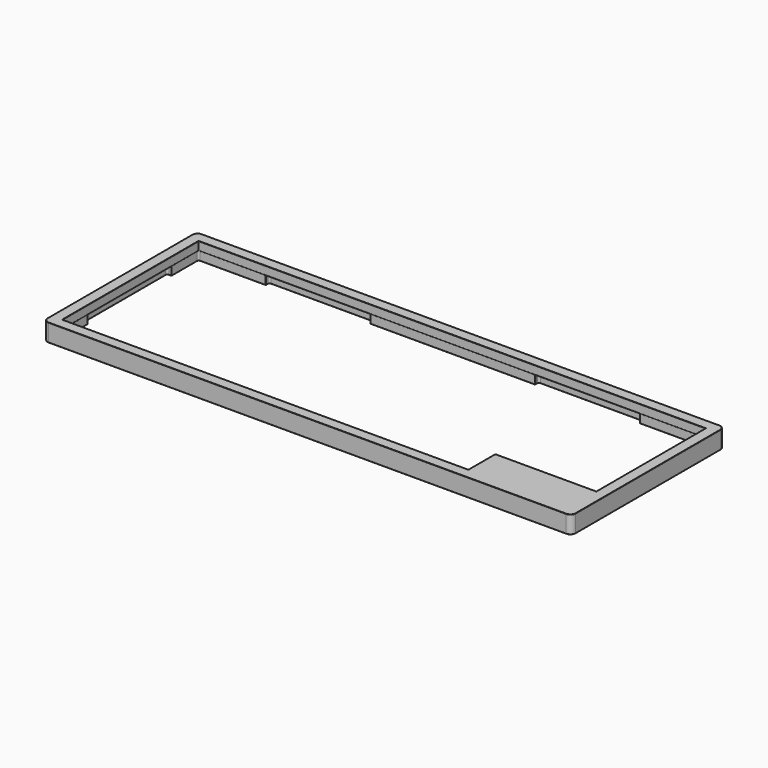
from build123d import *

# Parameters (mm, degrees)
SKETCH004_W       = 298.85
SKETCH004_H       = 108.35
PAD002_DEPTH      = 6.8
PAD002_DEPTH_BACK = 3.2
SKETCH010_R       = 1.1
HOLE001_DEPTH     = 4.2
HOLE001_TIPS_R    = 1.1
FILLET003_R       = 3
POCKET004_DEPTH   = 5.2
FILLET005_R       = 1
CHAMFER003_SIZE   = 0.1


with BuildPart() as part:
    # Sketch004 → Pad002 (new body, two sides)
    with BuildSketch(Plane.XY) as pad002_sk:
        Rectangle(SKETCH004_W, SKETCH004_H)
        Polygon((-143.425, 48.175), (-143.425, -48.175), (86.275, -48.175), (86.275, -29.125), (143.425, -29.125), (143.425, 48.175), align=None, mode=Mode.SUBTRACT)
    extrude(amount=PAD002_DEPTH)
    extrude(pad002_sk.sketch, amount=-PAD002_DEPTH_BACK)

    # Sketch010 (on Face11 of Pad002) → Hole001 (cut)
    with BuildSketch(Plane(origin=(0, 0, -3.2), x_dir=(1, 0, 0), z_dir=(0, 0, -1))):
        with Locations((-145.925, 50.675)):
            Circle(SKETCH010_R)
        with Locations((-145.925, -50.675)):
            Circle(SKETCH010_R)
        with Locations((145.925, 50.675)):
            Circle(SKETCH010_R)
        with Locations((145.925, -50.675)):
            Circle(SKETCH010_R)
    extrude(amount=-HOLE001_DEPTH, mode=Mode.SUBTRACT)

    # Hole001 tips → Hole001 tip 1 section 0
    with BuildSketch(Plane(origin=(0, 0, 1), x_dir=(1, 0, 0), z_dir=(0, 0, -1)), mode=Mode.PRIVATE) as hole001_tip_1_s0:
        with Locations((-145.925, 50.675)):
            Circle(HOLE001_TIPS_R)
    loft([hole001_tip_1_s0.sketch, Vertex(-145.925, -50.675, 1.660947)], mode=Mode.SUBTRACT)

    # Hole001 tips → Hole001 tip 2 section 0
    with BuildSketch(Plane(origin=(0, 0, 1), x_dir=(1, 0, 0), z_dir=(0, 0, -1)), mode=Mode.PRIVATE) as hole001_tip_2_s0:
        with Locations((-145.925, -50.675)):
            Circle(HOLE001_TIPS_R)
    loft([hole001_tip_2_s0.sketch, Vertex(-145.925, 50.675, 1.660947)], mode=Mode.SUBTRACT)

    # Hole001 tips → Hole001 tip 3 section 0
    with BuildSketch(Plane(origin=(0, 0, 1), x_dir=(1, 0, 0), z_dir=(0, 0, -1)), mode=Mode.PRIVATE) as hole001_tip_3_s0:
        with Locations((145.925, 50.675)):
            Circle(HOLE001_TIPS_R)
    loft([hole001_tip_3_s0.sketch, Vertex(145.925, -50.675, 1.660947)], mode=Mode.SUBTRACT)

    # Hole001 tips → Hole001 tip 4 section 0
    with BuildSketch(Plane(origin=(0, 0, 1), x_dir=(1, 0, 0), z_dir=(0, 0, -1)), mode=Mode.PRIVATE) as hole001_tip_4_s0:
        with Locations((145.925, -50.675)):
            Circle(HOLE001_TIPS_R)
    loft([hole001_tip_4_s0.sketch, Vertex(145.925, 50.675, 1.660947)], mode=Mode.SUBTRACT)

    # Fillet003
    fillet003_edges = [part.edges().sort_by_distance(p)[0] for p in [
        (149.425, 54.175, 1.8),
        (149.425, -54.175, 1.8),
        (-149.425, 54.175, 1.8),
        (-149.425, -54.175, 1.8),
    ]]
    fillet(fillet003_edges, radius=FILLET003_R)

    # Sketch011 (on Face2 of Fillet003) → Pocket004 (cut)
    with BuildSketch(Plane(origin=(0, 0, -3.2), x_dir=(1, 0, 0), z_dir=(0, 0, -1))):
        Polygon((-143.925, 48.675), (-72.4875, 48.675), (-72.4875, 51.175), (48.675, 51.175), (48.675, 48.675), (86.775, 48.675), (86.775, 29.625), (143.925, 29.625), (143.925, 10.575), (146.425, 10.575), (146.425, -29.625), (143.925, -29.625), (143.925, -48.675), (105.825, -48.675), (105.825, -51.175), (46.575, -51.175), (46.575, -48.675), (-46.575, -48.675), (-46.575, -51.175), (-105.825, -51.175), (-105.825, -48.675), (-143.925, -48.675), (-143.925, -29.625), (-146.425, -29.625), (-146.425, 29.625), (-143.925, 29.625), align=None)
    extrude(amount=-POCKET004_DEPTH, mode=Mode.SUBTRACT)

    # Fillet005
    fillet005_edges = [part.edges().sort_by_distance(p)[0] for p in [
        (146.425, -10.575, -0.6),
        (143.925, -29.625, -0.6),
        (146.425, 29.625, -0.6),
        (143.925, 48.675, -0.6),
        (105.825, 51.175, -0.6),
        (46.575, 51.175, -0.6),
        (-46.575, 51.175, -0.6),
        (-105.825, 51.175, -0.6),
        (-143.925, 48.675, -0.6),
        (-146.425, 29.625, -0.6),
        (-146.425, -29.625, -0.6),
        (-143.925, -48.675, -0.6),
        (48.675, -51.175, -0.6),
        (-72.4875, -51.175, -0.6),
        (86.775, -48.675, -0.6),
    ]]
    fillet(fillet005_edges, radius=FILLET005_R)

    # Chamfer003
    chamfer003_edges = [part.edges().sort_by_distance(p)[0] for p in [
        (0, 48.675, -3.2),
        (76.2, 51.175, -3.2),
        (143.925, 38.65, -3.2),
        (146.425, 9.525, -3.2),
        (114.85, -29.625, -3.2),
        (86.775, -38.65, -3.2),
        (-146.425, 0, -3.2),
        (-143.925, 38.65, -3.2),
        (-143.925, 29.625, -0.6),
        (-46.575, 48.675, -0.6),
        (86.775, -29.625, -0.6),
        (-72.4875, -48.675, -0.6),
        (-11.90625, -51.175, -3.2),
        (-107.70625, -48.675, -3.2),
        (48.675, -48.675, -0.6),
        (-143.925, -29.625, -0.6),
        (-105.825, 48.675, -0.6),
        (143.925, 29.625, -0.6),
        (143.925, -10.575, -0.6),
        (105.825, 48.675, -0.6),
        (46.575, 48.675, -0.6),
        (-46.575, 49.425, -3.2),
        (114.85, -29.125, 2),
        (86.275, -38.65, 2),
        (86.275, -29.125, 4.4),
        (-28.575, -48.175, 2),
        (143.425, 9.525, 2),
        (0, 48.175, 2),
        (-143.425, 0, 2),
        (-148.54632, -53.29632, -3.2),
        (148.54632, -53.29632, 6.8),
        (143.425, 9.525, 6.8),
        (114.85, -29.125, 6.8),
        (86.275, -38.65, 6.8),
        (-28.575, -48.175, 6.8),
        (0, 48.175, 6.8),
        (-143.425, 0, 6.8),
    ]]
    chamfer(chamfer003_edges, length=CHAMFER003_SIZE)


solid = part.part
